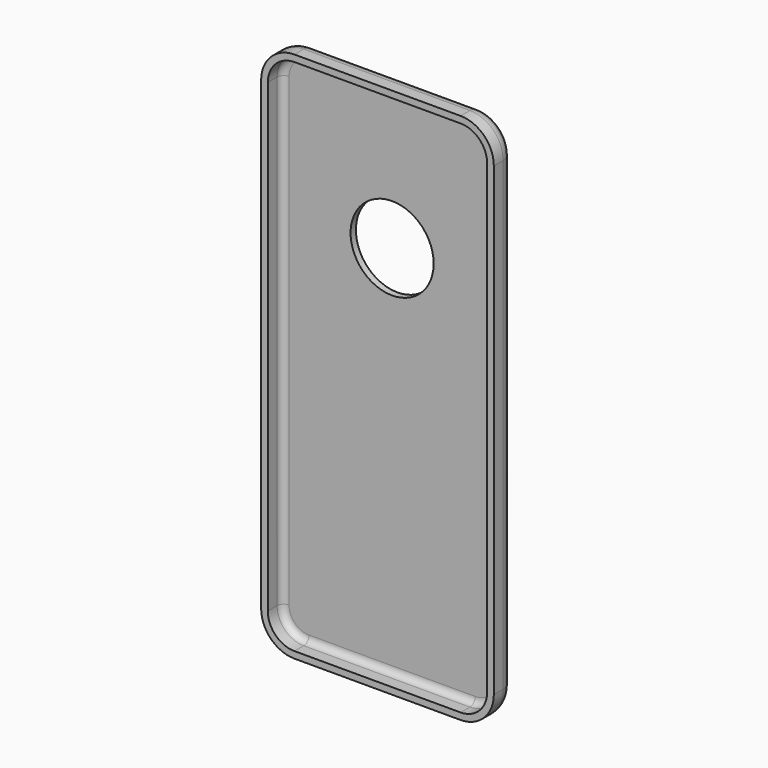
from build123d import *

# Parameters (mm, degrees)
F1_DEPTH = 9.525
F2_R     = 5.08
F3_T     = -2.54
F4_R     = 15.875
F5_DEPTH = 25.4


with BuildPart() as f1:
    # F0 (on Front) → F1 (new body)
    with BuildSketch(Plane.XZ):
        with BuildLine():
            Line((31.75, 101.6), (-31.75, 101.6))
            ThreePointArc((-31.75, 101.6), (-40.730256, 97.880256), (-44.45, 88.9))
            Line((-44.45, 88.9), (-44.45, -88.9))
            ThreePointArc((-44.45, -88.9), (-40.730256, -97.880256), (-31.75, -101.6))
            Line((-31.75, -101.6), (31.75, -101.6))
            ThreePointArc((31.75, -101.6), (40.730256, -97.880256), (44.45, -88.9))
            Line((44.45, -88.9), (44.45, 88.9))
            ThreePointArc((44.45, 88.9), (40.730256, 97.880256), (31.75, 101.6))
        make_face()
    extrude(amount=F1_DEPTH)

    # F2
    f2_edges = [f1.edges().sort_by_distance(p)[0] for p in [
        (0, 0, 101.6),
        (-40.730256, 0, 97.880256),
        (-44.45, 0, 0),
        (-40.730256, 0, -97.880256),
        (0, 0, -101.6),
        (40.730256, 0, -97.880256),
        (44.45, 0, 0),
        (40.730256, 0, 97.880256),
    ]]
    fillet(f2_edges, radius=F2_R)

    # F3
    f3_openings = [f1.faces().sort_by_distance(p)[0] for p in [
        (0, -9.525, 0),
    ]]
    offset(amount=F3_T, openings=f3_openings)

    # F4 (on face) → F5 (cut)
    with BuildSketch(Plane.XZ.offset(2.54)):
        with Locations((0, 43.90662)):
            Circle(F4_R)
    extrude(amount=-F5_DEPTH, mode=Mode.SUBTRACT)


solid = f1.part
